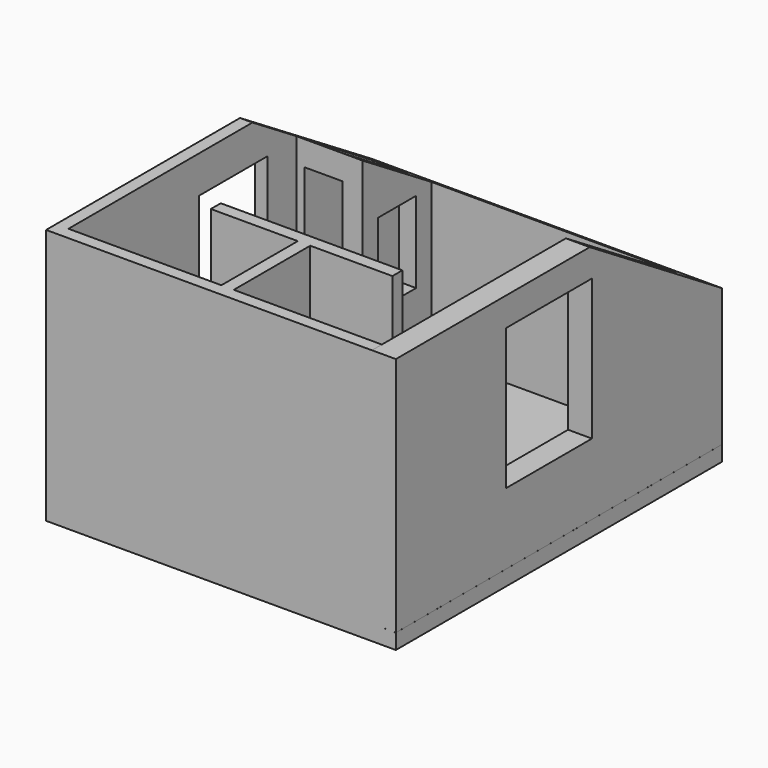
from build123d import *

# Parameters (mm, degrees)
F1_DEPTH  = 130
F2_DEPTH  = 210
F3_DEPTH  = 3410
F4_W      = 1125
F4_H      = 1475
F5_DEPTH  = 250
F8_DEPTH  = 210
F9_W      = 500
F9_H      = 850
F10_DEPTH = 180
F11_W     = 20
F11_H     = 200
F12_DEPTH = 400
F13_W     = 400
F13_H     = 0.2173379773
F13_H_2   = 499.7826620227
F14_DEPTH = 400
F15_R     = 150
F16_DEPTH = 500
F17_W     = 130
F17_H     = 2520
F18_DEPTH = 3280
F19_W     = 130
F19_H     = 2520
F20_DEPTH = 1000
F21_W     = 860
F21_H     = 2520
F21_W_2   = 130
F21_W_3   = 910
F22_DEPTH = 130
F24_DEPTH = 160


with BuildPart() as f1:
    # F0 (on Right) → F1 (new body)
    with BuildSketch(Plane.YZ):
        Polygon((-1232.6375129807, 1033.0878686905), (-1232.6375129807, -1486.9121313095), (602.3624870193, -1486.9121313095), (602.3624870193, 643.0878686905), (1502.3624870193, 643.0878686905), (1502.3624870193, -1486.9121313095), (1882.3624870193, -1486.9121313095), (1882.3624870193, 671.6876233862), (1304.001195655, 1033.0878686905), align=None)
    extrude(amount=F1_DEPTH)

    # F0 (on Right) → F2 (join)
    with BuildSketch(Plane.YZ):
        Polygon((2782.3624870193, 109.3052066678), (1882.3624870193, 671.6876233862), (1882.3624870193, -1486.9121313095), (2782.3624870193, -1486.9121313095), align=None)
    extrude(amount=F2_DEPTH)

    # F0 (on Right) → F3 (join)
    with BuildSketch(Plane.YZ):
        Polygon((3032.3624870193, -46.9121313095), (2782.3624870193, 109.3052066678), (2782.3624870193, -1486.9121313095), (3032.3624870193, -1486.9121313095), align=None)
    extrude(amount=F3_DEPTH)

    # F4 (on face) → F5 (join)
    with BuildSketch(Plane.YZ.offset(3410)):
        Polygon((-1232.6375129807, 1033.3052066678), (-1232.6375129807, -1486.6947933322), (1882.3624870193, -1486.6947933322), (1882.3624870193, 671.6876233862), (1303.6533821854, 1033.3052066678), align=None)
        with Locations((769.8624870193, -4.1947933322)):
            Rectangle(F4_W, F4_H, mode=Mode.SUBTRACT)
        Polygon((1882.3624870193, 671.6876233862), (1882.3624870193, -1486.6947933322), (2782.3624870193, -1486.6947933322), (2782.3624870193, 109.3052066678), align=None)
        Polygon((2782.3624870193, 109.3052066678), (2782.3624870193, -1486.6947933322), (3032.3624870193, -1486.6947933322), (3032.3624870193, -46.9121313095), align=None)
    extrude(amount=F5_DEPTH)



with BuildPart() as f8:
    # F7 (on offset) → F8 (new body)
    with BuildSketch(Plane.YZ.offset(610)):
        Polygon((2782.3624870193, 109.3052066678), (1882.3624870193, 671.6876233862), (1882.3624870193, -1486.6947933322), (2782.3624870193, -1486.6947933322), align=None)
    extrude(amount=F8_DEPTH)

    # F9 (on face) → F10 (cut)
    with BuildSketch(Plane.YZ.offset(820)):
        with Locations((2332.3624870193, -361.6947933322)):
            Rectangle(F9_W, F9_H)
    extrude(amount=-F10_DEPTH, mode=Mode.SUBTRACT)


with BuildPart() as f1_1:
    add(f1.part)

    add(f8.part)  # F12 merges F8
    # F11 (on face) → F12 (join)
    with BuildSketch(Plane.YZ.offset(210)):
        with Locations((1892.3624870193, -1386.9121313095)):
            Rectangle(F11_W, F11_H)
        Polygon((1902.3624870193, 659.190236348), (1882.3624870193, 671.6876233862), (1882.3624870193, 413.0878686905), (1902.3624870193, 413.0878686905), align=None)
    extrude(amount=F12_DEPTH)

    # F13 (on face) → F14 (join)
    with BuildSketch(Plane(origin=(3410, 0, 0), x_dir=(0, -1, 0), z_dir=(-1, 0, 0))):
        with Locations((-2582.3624870193, -1486.8034623208)):
            Rectangle(F13_W, F13_H)
        with Locations((-2582.3624870193, -1236.8034623208)):
            Rectangle(F13_W, F13_H_2)
        with Locations((-2582.3624870193, -1486.8034623208)):
            Rectangle(F13_W, F13_H)
        with Locations((-2582.3624870193, -1236.8034623208)):
            Rectangle(F13_W, F13_H_2)
    extrude(amount=F14_DEPTH)

    # F15 (on face) → F16 (cut, through all)
    with BuildSketch(Plane.XY.offset(-986.9121313095)):
        with Locations((3172.5, 2544.8624870193)):
            Circle(F15_R)
    extrude(amount=-F16_DEPTH, mode=Mode.SUBTRACT)

    # F17 (on face) → F18 (join, through all)
    with BuildSketch(Plane.YZ.offset(130)):
        with Locations((-1167.6375129807, -226.9121313095)):
            Rectangle(F17_W, F17_H)
    extrude(amount=F18_DEPTH)

    # F19 (on face) → F20 (join)
    with BuildSketch(Plane(origin=(0, -1102.6375129807, 0), x_dir=(-1, 0, 0), z_dir=(0, 1, 0))):
        with Locations((-1795, -226.9121313095)):
            Rectangle(F19_W, F19_H)
    extrude(amount=F20_DEPTH)

    # F21 (on face) → F22 (join)
    with BuildSketch(Plane(origin=(0, -102.6375129807, 0), x_dir=(-1, 0, 0), z_dir=(0, 1, 0))):
        with Locations((-2290, -226.9121313095)):
            Rectangle(F21_W, F21_H)
        with Locations((-1795, -226.9121313095)):
            Rectangle(F21_W_2, F21_H)
        with Locations((-1275, -226.9121313095)):
            Rectangle(F21_W_3, F21_H)
    extrude(amount=F22_DEPTH)

    # F23 (on face) → F24 (join)
    with BuildSketch(Plane(origin=(0, 0, -1486.9121313095), x_dir=(1, 0, 0), z_dir=(0, 0, -1))):
        Polygon((3660, 1232.6375129807), (3410, 1232.6375129807), (3410, 1102.6375129807), (1860, 1102.6375129807), (1860, 102.6375129807), (2720, 102.6375129807), (2720, -27.3624870193), (820, -27.3624870193), (820, 102.6375129807), (1730, 102.6375129807), (1730, 1102.6375129807), (130, 1102.6375129807), (130, -602.3624870193), (0, -602.3624870193), (0, -3032.3624870193), (3660, -3032.3624870193), align=None)
        Polygon((3410, 1232.6375129807), (0, 1232.6375129807), (0, -602.3624870193), (130, -602.3624870193), (130, 1102.6375129807), (1730, 1102.6375129807), (1730, 102.6375129807), (820, 102.6375129807), (820, -27.3624870193), (2720, -27.3624870193), (2720, 102.6375129807), (1860, 102.6375129807), (1860, 1102.6375129807), (3410, 1102.6375129807), align=None)
    extrude(amount=F24_DEPTH)


solid = f1_1.part
